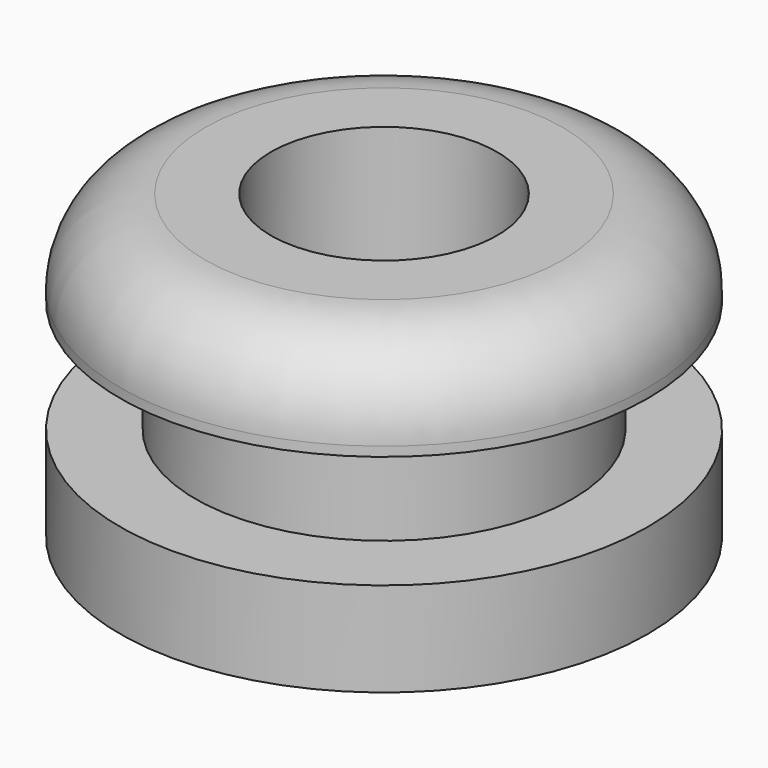
from build123d import *

# Parameters (mm, degrees)
F4_R = 1.7859375


with BuildPart() as f3:
    # F2 (on Front) → F3 (revolve)
    with BuildSketch(Plane.XZ):
        Polygon((-2.38125, -3.175), (-2.38125, 3.175), (-5.55625, 3.175), (-5.55625, 1.190625), (-3.96875, 1.190625), (-3.96875, -1.190625), (-5.55625, -1.190625), (-5.55625, -3.175), align=None)
    revolve(axis=Axis((0, 0, 0.0240590106), (0, 0, -1)))

    # F4
    f4_edges = [f3.edges().sort_by_distance(p)[0] for p in [
        (5.55625, 0, 3.175),
    ]]
    fillet(f4_edges, radius=F4_R)


solid = f3.part
